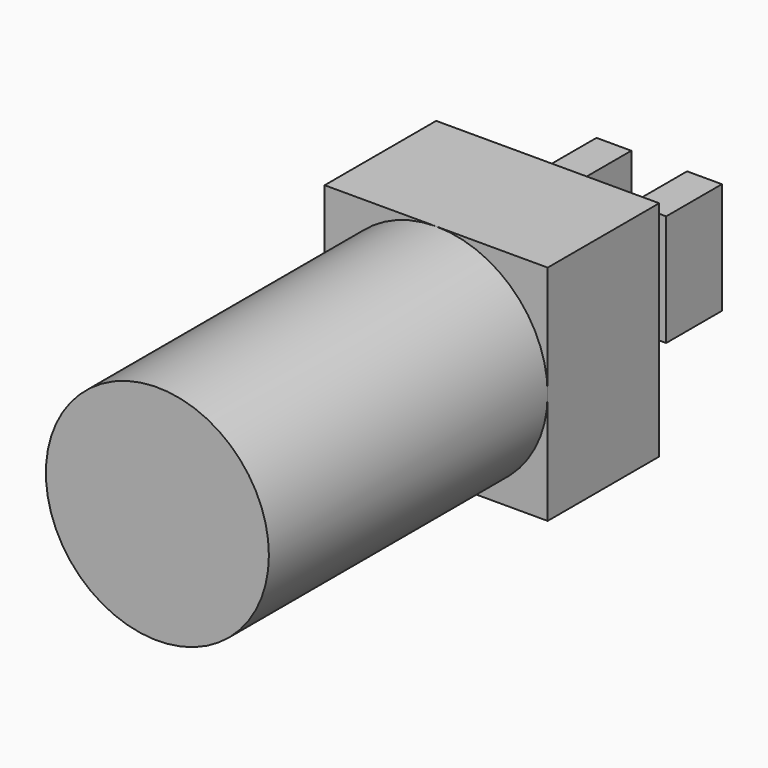
from build123d import *

# Parameters (mm, degrees)
F0_R     = 8
F1_DEPTH = 25
F2_W     = 16
F2_H     = 16
F3_DEPTH = 10
F4_W     = 1
F4_H     = 8
F5_DEPTH = 10
F6_W     = 2.5
F6_H     = 8
F7_DEPTH = 5


with BuildPart() as f1:
    # F0 (on Front) → F1 (new body)
    with BuildSketch(Plane.XZ):
        Circle(F0_R)
    extrude(amount=F1_DEPTH)

    # F2 (on face) → F3 (join)
    with BuildSketch(Plane.XZ):
        Rectangle(F2_W, F2_H)
    extrude(amount=-F3_DEPTH)

    # F4 (on face) → F5 (join)
    with BuildSketch(Plane(origin=(0, 10, 0), x_dir=(-1, 0, 0), z_dir=(0, 1, 0))):
        with Locations((2.5, 0)):
            Rectangle(F4_W, F4_H)
        with Locations((-2.5, 0)):
            Rectangle(F4_W, F4_H)
    extrude(amount=F5_DEPTH)

    # F6 (on face) → F7 (join)
    with BuildSketch(Plane(origin=(0, 20, 0), x_dir=(-1, 0, 0), z_dir=(0, 1, 0))):
        with Locations((3.25, 0)):
            Rectangle(F6_W, F6_H)
        with Locations((-3.25, 0)):
            Rectangle(F6_W, F6_H)
    extrude(amount=-F7_DEPTH)


solid = f1.part
